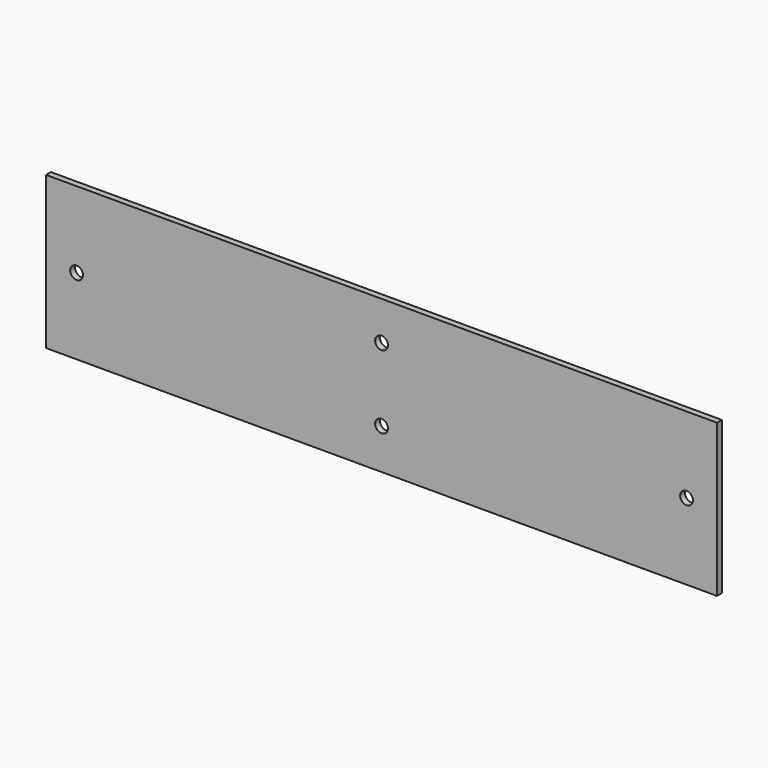
from build123d import *

# Parameters (mm, degrees)
F0_W     = 220
F0_H     = 50
F0_R     = 2.1
F1_DEPTH = 2


with BuildPart() as f1:
    # F0 (on Front) → F1 (new body)
    with BuildSketch(Plane.XZ):
        with Locations((109.796509, 24.825824)):
            Rectangle(F0_W, F0_H)
        with BuildLine():
            ThreePointArc((111.896509, 13.085015), (108.311585, 11.600091), (109.796509, 15.185015))
            ThreePointArc((109.796509, 15.185015), (111.281433, 14.56994), (111.896509, 13.085015))
        make_face(mode=Mode.SUBTRACT)
        with Locations((9.796509, 24.825824)):
            Circle(F0_R, mode=Mode.SUBTRACT)
        with BuildLine():
            ThreePointArc((109.796509, 34.985015), (108.311585, 38.56994), (111.896509, 37.085015))
            ThreePointArc((111.896509, 37.085015), (111.281433, 35.600091), (109.796509, 34.985015))
        make_face(mode=Mode.SUBTRACT)
        with Locations((209.796509, 24.825824)):
            Circle(F0_R, mode=Mode.SUBTRACT)
    extrude(amount=F1_DEPTH)


solid = f1.part
